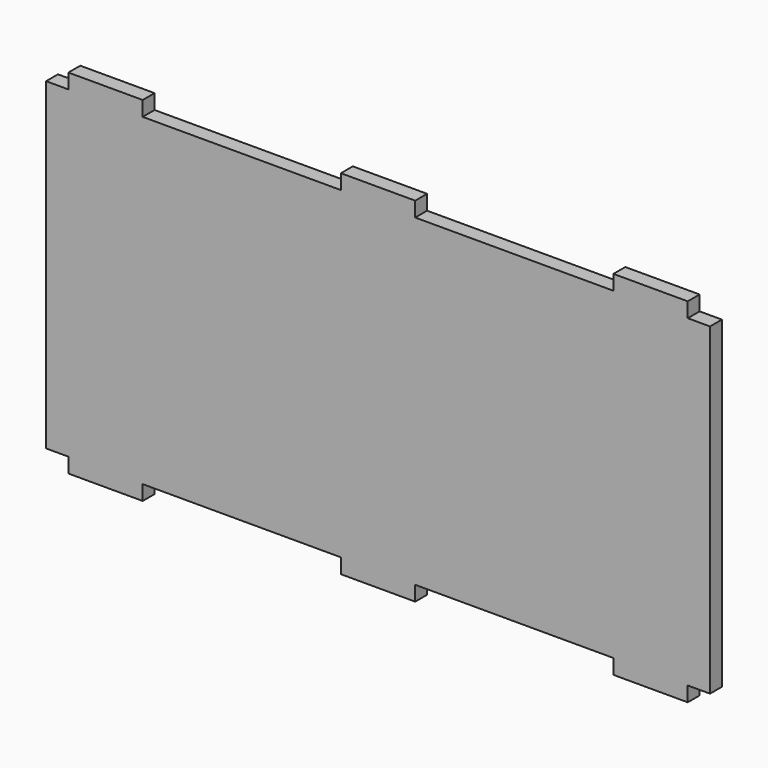
from build123d import *

# Parameters (mm, degrees)
F0_W     = 15
F0_H     = 3
F1_DEPTH = 3


with BuildPart() as f1:
    # F0 (on Front) → F1 (new body)
    with BuildSketch(Plane.XZ):
        Polygon((-62.5, 32.625), (-67, 32.625), (-67, -32.625), (-62.5, -32.625), (-47.5, -32.625), (-7.5, -32.625), (7.5, -32.625), (47.5, -32.625), (62.5, -32.625), (67, -32.625), (67, 32.625), (62.5, 32.625), (47.5, 32.625), (7.5, 32.625), (-7.5, 32.625), (-47.5, 32.625), align=None)
        with Locations((-55, 34.125)):
            Rectangle(F0_W, F0_H)
        with Locations((-55, -34.125)):
            Rectangle(F0_W, F0_H)
        with Locations((0, 34.125)):
            Rectangle(F0_W, F0_H)
        with Locations((0, -34.125)):
            Rectangle(F0_W, F0_H)
        with Locations((55, 34.125)):
            Rectangle(F0_W, F0_H)
        with Locations((55, -34.125)):
            Rectangle(F0_W, F0_H)
    extrude(amount=F1_DEPTH)


solid = f1.part
